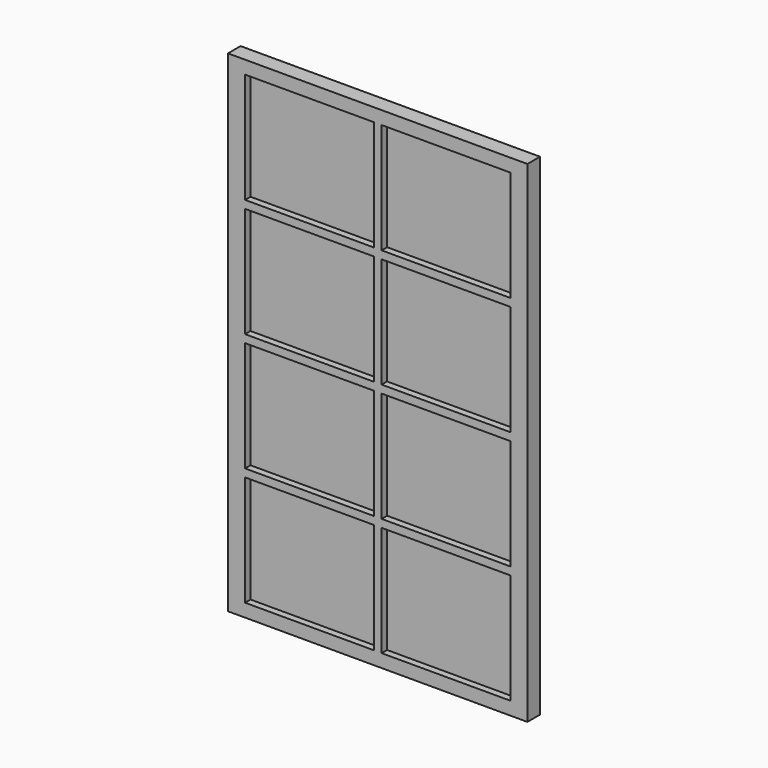
from build123d import *

# Parameters (mm, degrees)
F0_W     = 570
F0_H     = 935
F0_W_2   = 245
F0_H_2   = 210
F1_DEPTH = 30
F3_W     = 245
F3_H     = 210
F4_DEPTH = 2


with BuildPart() as f1:
    # F0 (on Front) → F1 (new body)
    with BuildSketch(Plane.XZ):
        Rectangle(F0_W, F0_H)
        with Locations((-130, -337.5)):
            Rectangle(F0_W_2, F0_H_2, mode=Mode.SUBTRACT)
        with Locations((-130, -112.5)):
            Rectangle(F0_W_2, F0_H_2, mode=Mode.SUBTRACT)
        with Locations((130, -337.5)):
            Rectangle(F0_W_2, F0_H_2, mode=Mode.SUBTRACT)
        with Locations((130, -112.5)):
            Rectangle(F0_W_2, F0_H_2, mode=Mode.SUBTRACT)
        with Locations((-130, 112.5)):
            Rectangle(F0_W_2, F0_H_2, mode=Mode.SUBTRACT)
        with Locations((-130, 337.5)):
            Rectangle(F0_W_2, F0_H_2, mode=Mode.SUBTRACT)
        with Locations((130, 112.5)):
            Rectangle(F0_W_2, F0_H_2, mode=Mode.SUBTRACT)
        with Locations((130, 337.5)):
            Rectangle(F0_W_2, F0_H_2, mode=Mode.SUBTRACT)
    extrude(amount=-F1_DEPTH)

    # F3 (on offset) → F4 (join)
    with BuildSketch(Plane.XZ.offset(-15)):
        with Locations((-130, 337.5)):
            Rectangle(F3_W, F3_H)
        with Locations((130, 337.5)):
            Rectangle(F3_W, F3_H)
        with Locations((130, 112.5)):
            Rectangle(F3_W, F3_H)
        with Locations((-130, 112.5)):
            Rectangle(F3_W, F3_H)
        with Locations((-130, -112.5)):
            Rectangle(F3_W, F3_H)
        with Locations((130, -112.5)):
            Rectangle(F3_W, F3_H)
        with Locations((130, -337.5)):
            Rectangle(F3_W, F3_H)
        with Locations((-130, -337.5)):
            Rectangle(F3_W, F3_H)
    extrude(amount=F4_DEPTH)


solid = f1.part
